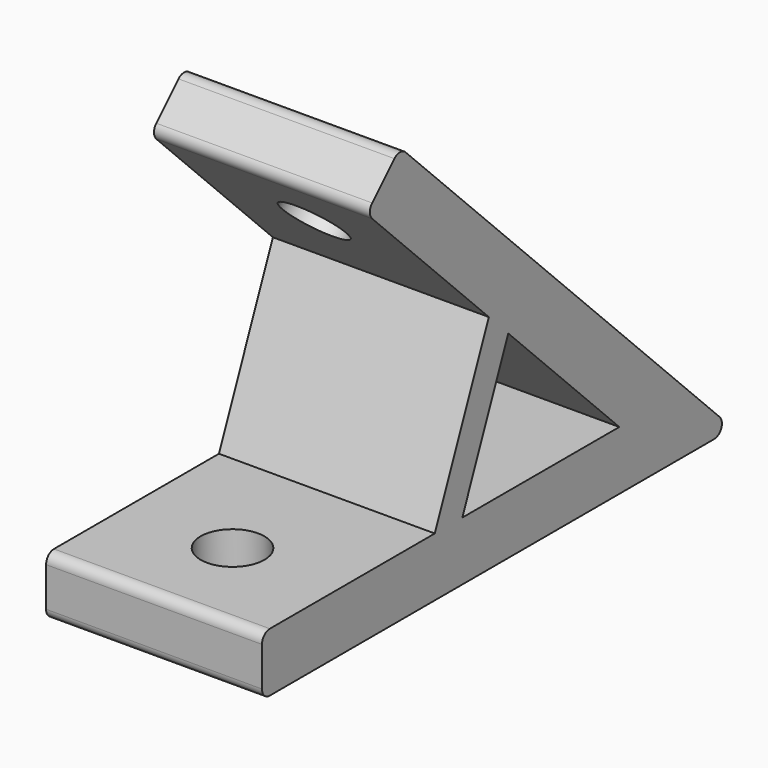
from build123d import *

# Parameters (mm, degrees)
PAD_DEPTH       = 11
SKETCH001_R     = 3.25
POCKET_DEPTH    = 6
SKETCH002_R     = 3.25
POCKET001_DEPTH = 6
FILLET_R        = 1


with BuildPart() as part:
    # Sketch → Pad (new body, symmetric)
    with BuildSketch(Plane.YZ):
        Polygon((-60, 0), (0, 0), (-42.4264068712, 42.4264068712), (-46.6690475583, 38.1837661841), (-31.1022907321, 22.6170093579), (-37.9852813742, 6), (-60, 6), align=None)
        Polygon((-28.627416998, 20.1421356237), (-34.4852813742, 6), (-14.4852813742, 6), align=None, mode=Mode.SUBTRACT)
    extrude(amount=PAD_DEPTH, both=True)

    # Sketch001 (on Face6 of Pad) → Pocket (cut)
    with BuildSketch(Plane(origin=(0, 0, 6), x_dir=(0, -1, 0), z_dir=(0, 0, 1))):
        with Locations((50, 0)):
            Circle(SKETCH001_R)
    extrude(amount=-POCKET_DEPTH, mode=Mode.SUBTRACT)

    # Sketch002 (on Face9 of Pocket) → Pocket001 (cut)
    with BuildSketch(Plane(origin=(0, -4.2426406871, -4.2426406871), x_dir=(0, 0.7071067812, -0.7071067812), z_dir=(0, -0.7071067812, -0.7071067812))):
        with Locations((-50, 0)):
            Circle(SKETCH002_R)
    extrude(amount=-POCKET001_DEPTH, mode=Mode.SUBTRACT)

    # Fillet
    fillet_edges = [part.edges().sort_by_distance(p)[0] for p in [
        (0, 0, 0),
        (0, -60, 0),
        (0, -60, 6),
        (0, -46.669048, 38.183766),
        (0, -42.426407, 42.426407),
    ]]
    fillet(fillet_edges, radius=FILLET_R)


solid = part.part
